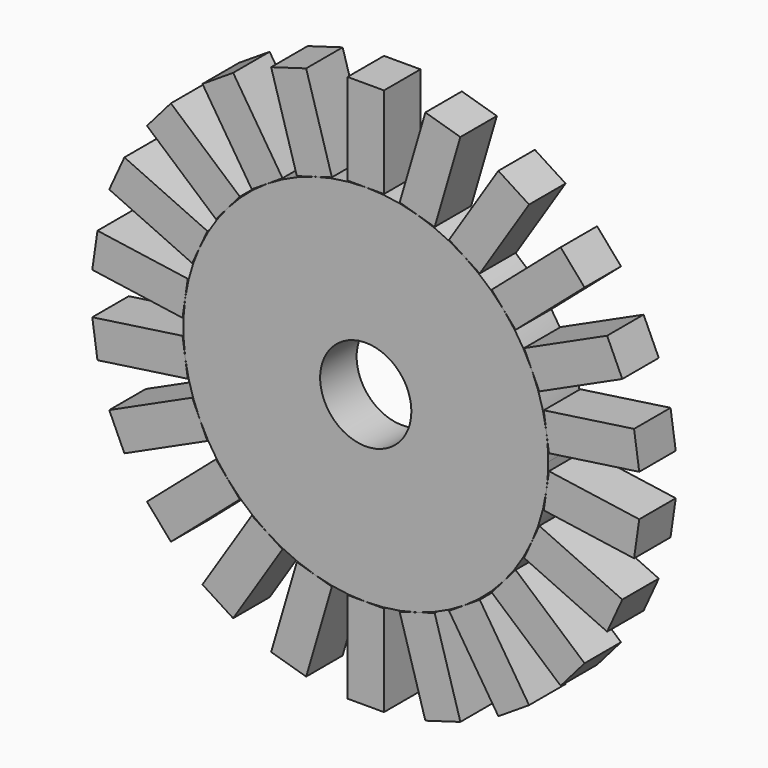
from build123d import *

# Parameters (mm, degrees)
F0_R     = 3.175
F1_DEPTH = 3.175


with BuildPart() as f1:
    # F0 (on Front) → F1 (new body)
    with BuildSketch(Plane.XZ):
        with BuildLine():
            ThreePointArc((12.570732, -1.807398), (12.667642, -0.906008), (12.7, 0))
            ThreePointArc((12.7, 0), (12.667642, 0.906008), (12.570732, 1.807398))
            ThreePointArc((12.570732, 1.807398), (12.185561, 3.578003), (11.552326, 5.275771))
            ThreePointArc((11.552326, 5.275771), (10.68392, 6.866138), (9.59802, 8.316731))
            ThreePointArc((9.59802, 8.316731), (8.316732, 9.598019), (6.86614, 10.683919))
            ThreePointArc((6.86614, 10.683919), (5.275771, 11.552326), (3.578004, 12.185561))
            ThreePointArc((3.578004, 12.185561), (1.807399, 12.570732), (0, 12.7))
            ThreePointArc((0, 12.7), (-1.807398, 12.570732), (-3.578003, 12.185561))
            ThreePointArc((-3.578003, 12.185561), (-5.275771, 11.552326), (-6.86614, 10.683919))
            ThreePointArc((-6.86614, 10.683919), (-8.316732, 9.598019), (-9.59802, 8.316731))
            ThreePointArc((-9.59802, 8.316731), (-10.68392, 6.866138), (-11.552326, 5.275771))
            ThreePointArc((-11.552326, 5.275771), (-12.185561, 3.578004), (-12.570732, 1.807398))
            ThreePointArc((-12.570732, 1.807398), (-12.7, 0), (-12.570732, -1.807398))
            ThreePointArc((-12.570732, -1.807398), (-12.185561, -3.578003), (-11.552326, -5.275771))
            ThreePointArc((-11.552326, -5.275771), (-10.68392, -6.866138), (-9.59802, -8.316731))
            ThreePointArc((-9.59802, -8.316731), (-8.316732, -9.598019), (-6.86614, -10.683919))
            ThreePointArc((-6.86614, -10.683919), (-5.275771, -11.552326), (-3.578003, -12.185561))
            ThreePointArc((-3.578003, -12.185561), (-1.807398, -12.570732), (0, -12.7))
            ThreePointArc((0, -12.7), (1.807398, -12.570732), (3.578003, -12.185561))
            ThreePointArc((3.578003, -12.185561), (5.275771, -11.552326), (6.86614, -10.683919))
            ThreePointArc((6.86614, -10.683919), (8.316732, -9.598019), (9.59802, -8.316731))
            ThreePointArc((9.59802, -8.316731), (10.68392, -6.866138), (11.552326, -5.275771))
            ThreePointArc((11.552326, -5.275771), (12.185561, -3.578003), (12.570732, -1.807398))
        make_face()
        Circle(F0_R, mode=Mode.SUBTRACT)
        Polygon((12.751472, -0.550325), (12.570732, -1.807398), (12.389992, -3.064472), (18.675359, -3.968171), (19.036838, -1.454024), align=None)
        Polygon((12.079903, -4.120538), (11.552326, -5.275771), (11.024749, -6.431003), (16.800912, -9.068889), (17.856067, -6.758423), align=None)
        Polygon((10.429693, -7.356929), (9.59802, -8.316731), (8.766346, -9.276533), (13.565356, -13.434899), (15.228703, -11.515295), align=None)
        Polygon((7.93453, -9.997306), (6.86614, -10.683919), (5.797746, -11.370534), (9.230816, -16.712494), (11.3676, -15.339266), align=None)
        Polygon((4.79656, -11.82776), (3.578003, -12.185561), (2.359447, -12.543361), (4.148449, -18.636141), (6.585561, -17.920541), align=None)
        Polygon((1.27, -12.7), (0, -12.7), (-1.27, -12.7), (-1.27, -19.05), (1.27, -19.05), align=None)
        Polygon((-2.359447, -12.543361), (-3.578003, -12.185561), (-4.79656, -11.82776), (-6.585561, -17.920541), (-4.148449, -18.636141), align=None)
        Polygon((-5.797746, -11.370534), (-6.86614, -10.683919), (-7.93453, -9.997306), (-11.3676, -15.339266), (-9.230816, -16.712494), align=None)
        Polygon((-8.766346, -9.276533), (-9.59802, -8.316731), (-10.429693, -7.356929), (-15.228703, -11.515295), (-13.565356, -13.434899), align=None)
        Polygon((-11.024749, -6.431003), (-11.552326, -5.275771), (-12.079903, -4.120538), (-17.856067, -6.758423), (-16.800912, -9.068889), align=None)
        Polygon((-12.389992, -3.064472), (-12.570732, -1.807398), (-12.751472, -0.550325), (-19.036838, -1.454024), (-18.675359, -3.968171), align=None)
        Polygon((-12.751472, 0.550325), (-12.570732, 1.807398), (-12.389992, 3.064472), (-18.675359, 3.968171), (-19.036838, 1.454024), align=None)
        Polygon((-12.079903, 4.120538), (-11.552326, 5.275771), (-11.024749, 6.431003), (-16.800912, 9.068889), (-17.856067, 6.758423), align=None)
        Polygon((-10.429693, 7.356929), (-9.59802, 8.316731), (-8.766346, 9.276533), (-13.565356, 13.434899), (-15.228703, 11.515295), align=None)
        Polygon((-7.93453, 9.997306), (-6.86614, 10.683919), (-5.797746, 11.370534), (-9.230816, 16.712494), (-11.3676, 15.339266), align=None)
        Polygon((-4.79656, 11.82776), (-3.578003, 12.185561), (-2.359447, 12.543361), (-4.148449, 18.636141), (-6.585561, 17.920541), align=None)
        Polygon((-1.27, 12.7), (0, 12.7), (1.27, 12.7), (1.27, 19.05), (-1.27, 19.05), align=None)
        Polygon((2.359447, 12.543361), (3.578004, 12.185561), (4.79656, 11.82776), (6.585561, 17.920541), (4.148449, 18.636141), align=None)
        Polygon((5.797746, 11.370534), (6.86614, 10.683919), (7.93453, 9.997306), (11.3676, 15.339266), (9.230816, 16.712494), align=None)
        Polygon((8.766346, 9.276533), (9.59802, 8.316731), (10.429693, 7.356929), (15.228703, 11.515295), (13.565356, 13.434899), align=None)
        Polygon((11.024749, 6.431003), (11.552326, 5.275771), (12.079903, 4.120538), (17.856067, 6.758423), (16.800912, 9.068889), align=None)
        Polygon((12.389992, 3.064472), (12.570732, 1.807398), (12.751472, 0.550325), (19.036838, 1.454024), (18.675359, 3.968171), align=None)
    extrude(amount=F1_DEPTH)


solid = f1.part
